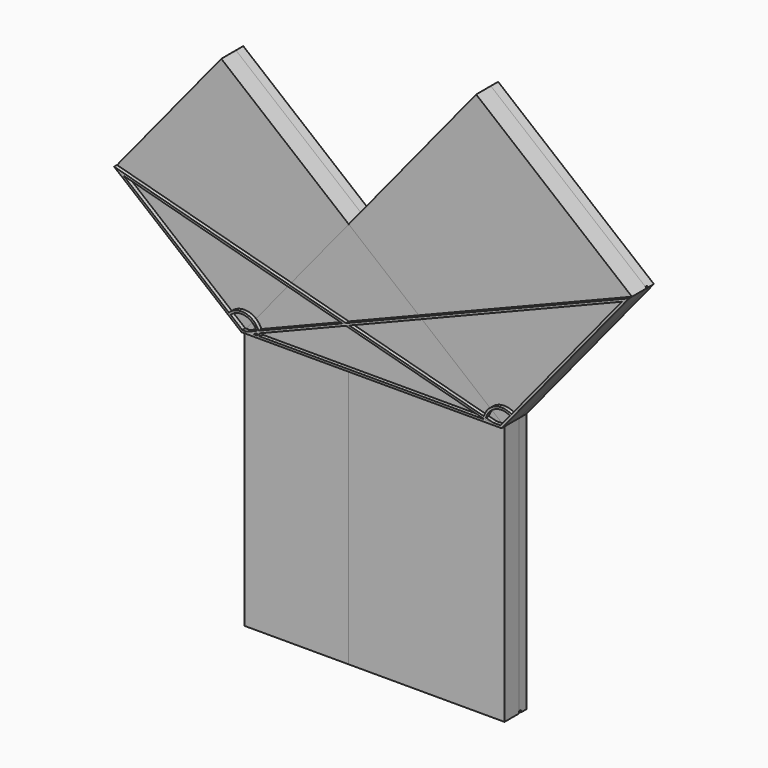
from build123d import *

# Parameters (mm, degrees)
F1_DEPTH  = 12.7
F3_DEPTH  = 6.35
F4_DEPTH  = 12.7
F0_W      = 72.3790794264
F0_H      = 180.5009141251
F5_DEPTH  = 12.7
F6_DEPTH  = 12.7
F0_W_2    = 108.1218346987
F7_DEPTH  = 12.7
F9_DEPTH  = 2.54
F11_DEPTH = 2.54
F13_DEPTH = 1.524


with BuildPart() as f1:
    # F0 (on Front) → F1 (new body)
    with BuildSketch(Plane.XZ):
        Polygon((0, 88.4633192989), (-72.3790794264, 0), (0, 0), (108.1218346987, 0), align=None)
    extrude(amount=-F1_DEPTH)


with BuildPart() as f3:
    # F2 (on face) → F3 (new body)
    with BuildSketch(Plane(origin=(0, 12.7, 0), x_dir=(-1, 0, 0), z_dir=(0, 1, 0))):
        Polygon((-196.5851539976, 108.1218346987), (-108.1218346987, 0), (-108.1218346987, -180.5009141251), (72.3790794264, -180.5009141251), (72.3790794264, 0), (160.8423987253, 72.3790794264), (88.4633192989, 160.8423987253), (0, 88.4633192989), (-88.4633192989, 196.5851539976), align=None)
    extrude(amount=F3_DEPTH)

    # F12 (on face) → F13 (cut)
    with BuildSketch(Plane.XZ.offset(-12.7)):
        with BuildLine():
            Line((196.5093321637, 108.8800530376), (-0.0758218339, 89.2215376379))
            ThreePointArc((-0.0758218339, 89.2215376379), (0.5113060544, 89.0283061295), (0.762, 88.4633192989))
            Line((0.762, 88.4633192989), (0.762, 87.7737187766))
            Line((0.762, 87.7737187766), (196.6609758315, 107.3636163598))
            ThreePointArc((196.6609758315, 107.3636163598), (197.3433723366, 108.1976565326), (196.5093321637, 108.8800530376))
        make_face()
        with BuildLine():
            ThreePointArc((-0.762, 88.4633192989), (-0.5649868306, 88.9746253534), (-0.0758218339, 89.2215376379))
            Line((-0.0758218339, 89.2215376379), (-160.9182205592, 73.1372977653))
            ThreePointArc((-160.9182205592, 73.1372977653), (-161.6006170643, 72.3032575925), (-160.7665768915, 71.6208610875))
            Line((-160.7665768915, 71.6208610875), (-0.762, 87.6213187766))
            Line((-0.762, 87.6213187766), (-0.762, 88.4633192989))
        make_face()
        with BuildLine():
            ThreePointArc((0.762, 88.4633192989), (0.5113060544, 89.0283061295), (-0.0758218339, 89.2215376379))
            ThreePointArc((-0.0758218339, 89.2215376379), (-0.5649868306, 88.9746253534), (-0.762, 88.4633192989))
            ThreePointArc((-0.762, 88.4633192989), (-0.5113060544, 87.8983324684), (0.0758218339, 87.70510096))
            ThreePointArc((0.0758218339, 87.70510096), (0.5649868306, 87.9520132445), (0.762, 88.4633192989))
        make_face()
        with BuildLine():
            Line((0.762, 87.7737187766), (0.762, 88.4633192989))
            ThreePointArc((0.762, 88.4633192989), (0.5649868306, 87.9520132445), (0.0758218339, 87.70510096))
            Line((0.0758218339, 87.70510096), (0.762, 87.7737187766))
        make_face()
        with BuildLine():
            ThreePointArc((0.0758218339, 87.70510096), (-0.5113060544, 87.8983324684), (-0.762, 88.4633192989))
            Line((-0.762, 88.4633192989), (-0.762, 87.6213187766))
            Line((-0.762, 87.6213187766), (0.0758218339, 87.70510096))
        make_face()
        with BuildLine():
            Line((0.762, 87.7737187766), (0.0758218339, 87.70510096))
            Line((0.0758218339, 87.70510096), (-0.762, 87.6213187766))
            Line((-0.762, 87.6213187766), (-0.762, 0.1470849612))
            Line((-0.762, 0.1470849612), (-0.7072575137, 0.2836032604))
            ThreePointArc((-0.7072575137, 0.2836032604), (-0.060261329, 0.7596134361), (0.6536949755, 0.3915697626))
            Line((0.6536949755, 0.3915697626), (0.762, 0.2107630275))
            Line((0.762, 0.2107630275), (0.762, 87.7737187766))
        make_face()
        with BuildLine():
            Line((108.7755296742, -180.1093443625), (0.762, 0.2107630275))
            Line((0.762, 0.2107630275), (0.762, 1.47e-08))
            Line((0.762, 1.47e-08), (0.762, -2.7549613746))
            Line((0.762, -2.7549613746), (107.4681397232, -180.8924838877))
            ThreePointArc((107.4681397232, -180.8924838877), (108.5134044613, -181.1546091006), (108.7755296742, -180.1093443625))
        make_face()
        with BuildLine():
            Line((0.762, 1.47e-08), (0.762, 0.2107630275))
            Line((0.762, 0.2107630275), (0.6536949755, 0.3915697626))
            ThreePointArc((0.6536949755, 0.3915697626), (0.7344247972, 0.2031359574), (0.762, 1.47e-08))
        make_face()
        with BuildLine():
            Line((-0.7072575137, 0.2836032604), (-0.762, 0.1470849612))
            Line((-0.762, 0.1470849612), (-0.762, 7.8e-09))
            ThreePointArc((-0.762, 7.8e-09), (-0.7481892218, 0.1444191413), (-0.7072575137, 0.2836032604))
        make_face()
        with BuildLine():
            Line((-0.762, 7.8e-09), (-0.762, 0.1470849612))
            Line((-0.762, 0.1470849612), (-73.0863369401, -180.2173108647))
            ThreePointArc((-73.0863369401, -180.2173108647), (-72.6626826868, -181.2081716388), (-71.6718219127, -180.7845173855))
            Line((-71.6718219127, -180.7845173855), (-0.762, -3.9476775538))
            Line((-0.762, -3.9476775538), (-0.762, 7.8e-09))
        make_face()
        with BuildLine():
            Line((0.762, -2.7549613746), (0.762, 1.47e-08))
            ThreePointArc((0.762, 1.47e-08), (0.7481892239, -0.1444191303), (0.7072575137, -0.2836032604))
            Line((0.7072575137, -0.2836032604), (0.1355958061, -1.7092287534))
            Line((0.1355958061, -1.7092287534), (0.762, -2.7549613746))
        make_face()
        with BuildLine():
            ThreePointArc((-0.6536949755, -0.3915697626), (-0.7344248002, -0.2031359466), (-0.762, 7.8e-09))
            Line((-0.762, 7.8e-09), (-0.762, -3.9476775538))
            Line((-0.762, -3.9476775538), (0.1355958061, -1.7092287534))
            Line((0.1355958061, -1.7092287534), (-0.6536949755, -0.3915697626))
        make_face()
        with BuildLine():
            Line((0.762, -180.5009141251), (0.762, -2.7549613746))
            Line((0.762, -2.7549613746), (0.1355958061, -1.7092287534))
            Line((0.1355958061, -1.7092287534), (-0.762, -3.9476775538))
            Line((-0.762, -3.9476775538), (-0.762, -180.5009141251))
            ThreePointArc((-0.762, -180.5009141251), (0, -181.2629141251), (0.762, -180.5009141251))
        make_face()
    extrude(amount=-F13_DEPTH, mode=Mode.SUBTRACT)


with BuildPart() as f4:
    # F0 (on Front) → F4 (new body)
    with BuildSketch(Plane.XZ):
        Polygon((-160.8423987253, 72.3790794264), (-72.3790794264, 0), (0, 88.4633192989), (-88.4633192989, 160.8423987253), align=None)
    extrude(amount=-F4_DEPTH)


with BuildPart() as f5:
    # F0 (on Front) → F5 (new body)
    with BuildSketch(Plane.XZ):
        with Locations((-36.1895397132, -90.2504570626)):
            Rectangle(F0_W, F0_H)
    extrude(amount=-F5_DEPTH)


with BuildPart() as f6:
    # F0 (on Front) → F6 (new body)
    with BuildSketch(Plane.XZ):
        Polygon((88.4633192989, 196.5851539976), (0, 88.4633192989), (108.1218346987, 0), (196.5851539976, 108.1218346987), align=None)
    extrude(amount=-F6_DEPTH)


with BuildPart() as f7:
    # F0 (on Front) → F7 (new body)
    with BuildSketch(Plane.XZ):
        with Locations((54.0609173494, -90.2504570626)):
            Rectangle(F0_W_2, F0_H)
    extrude(amount=-F7_DEPTH)


with BuildPart() as f9:
    # F8 (on Front) → F9 (new body)
    with BuildSketch(Plane.XZ):
        Polygon((-160.8423987253, 72.3790794264), (-72.3790794264, 0), (108.1218346987, 0), align=None)
        with BuildLine():
            Line((-61.3074761098, 1.524), (-71.8350672381, 1.524))
            Line((-71.8350672381, 1.524), (-79.9829732348, 8.1904685428))
            ThreePointArc((-79.9829732348, 8.1904685428), (-68.6218593082, 10.5255058303), (-61.3074761098, 1.524))
        make_face(mode=Mode.SUBTRACT)
        with BuildLine():
            Line((-154.3819095996, 69.0623255685), (96.593843439, 1.524))
            Line((96.593843439, 1.524), (-59.7708510021, 1.524))
            ThreePointArc((-59.7708510021, 1.524), (-68.1095111103, 11.9608020799), (-81.1722554531, 9.1635176305))
            Line((-81.1722554531, 9.1635176305), (-154.3819095996, 69.0623255685))
        make_face(mode=Mode.SUBTRACT)
    extrude(amount=F9_DEPTH)


with BuildPart() as f11:
    # F10 (on face) → F11 (new body)
    with BuildSketch(Plane.XZ):
        Polygon((-72.3790794264, 0), (108.1218346987, 0), (196.5851539976, 108.1218346987), align=None)
        with BuildLine():
            Line((113.9532813935, 9.5340025931), (107.3996429082, 1.524))
            Line((107.3996429082, 1.524), (97.0502313821, 1.524))
            ThreePointArc((97.0502313821, 1.524), (103.3359339746, 10.099412372), (113.9532813935, 9.5340025931))
        make_face(mode=Mode.SUBTRACT)
        with BuildLine():
            Line((95.5136062744, 1.524), (-64.5020116843, 1.524))
            Line((-64.5020116843, 1.524), (191.6484736244, 104.4947930975))
            Line((191.6484736244, 104.4947930975), (114.9263304812, 10.7232848114))
            ThreePointArc((114.9263304812, 10.7232848114), (102.6833111486, 11.4766049682), (95.5136062744, 1.524))
        make_face(mode=Mode.SUBTRACT)
    extrude(amount=F11_DEPTH)


solid = Compound([f1.part, f3.part, f4.part, f5.part, f6.part, f7.part, f9.part, f11.part])
